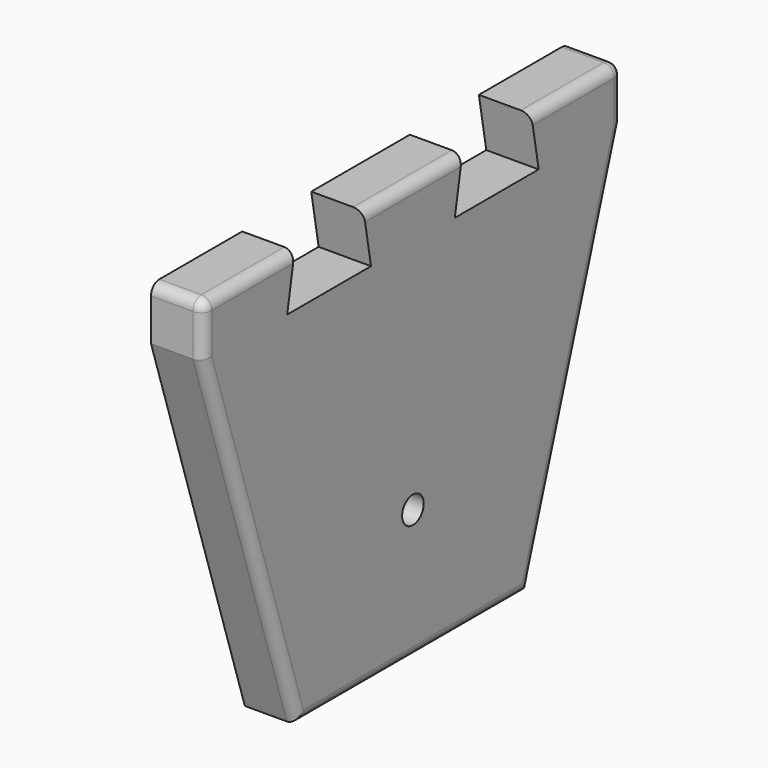
from build123d import *

# Parameters (mm, degrees)
F1_DEPTH = 10
F2_R     = 2.575657
F3_DEPTH = 10
F4_R     = 2


with BuildPart() as f1:
    # F0 (on Right) → F1 (new body)
    with BuildSketch(Plane.YZ):
        Polygon((-27.603682, -70), (0, -70), (27.603682, -70), (50, 0), (50, 10), (28.23673, 10), (30, 0), (20, 0), (10, 0), (11.76327, 10), (0, 10), (-11.76327, 10), (-10, 0), (-20, 0), (-30, 0), (-28.23673, 10), (-50, 10), (-50, 0), align=None)
    extrude(amount=F1_DEPTH)

    # F2 (on face) → F3 (cut, through all)
    with BuildSketch(Plane.YZ.offset(10)):
        with Locations((0, -45)):
            Circle(F2_R)
    extrude(amount=-F3_DEPTH, mode=Mode.SUBTRACT)

    # F4
    f4_edges = [f1.edges().sort_by_distance(p)[0] for p in [
        (5, -50, 10),
        (5, 50, 10),
        (10, -39.118365, 10),
        (10, 0, 10),
        (10, 39.118365, 10),
        (10, -50, 5),
        (10, -38.801841, -35),
        (10, 38.801841, -35),
        (10, 50, 5),
        (10, 0, -70),
    ]]
    fillet(f4_edges, radius=F4_R)


solid = f1.part
